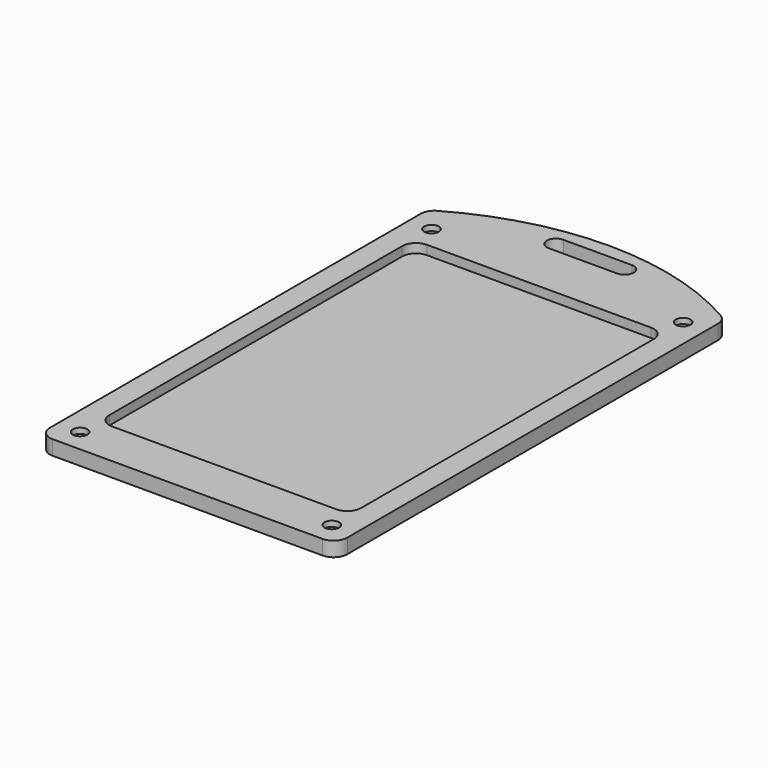
from build123d import *

# Parameters (mm, degrees)
F1_DEPTH = 3.2
F2_DEPTH = 1.2
F3_START = 2
F0_R     = 1.6
F3_DEPTH = 1.2


with BuildPart() as f1:
    # F0 (on Top) → F1 (new body)
    with BuildSketch(Plane.XY):
        with BuildLine():
            Line((-32.5, 51.2930130847), (-32.5, 48))
            Line((-32.5, 48), (-32.5, -48))
            Line((-32.5, -48), (-32.5, -50))
            ThreePointArc((-32.5, -50), (-31.6213203436, -52.1213203436), (-29.5, -53))
            Line((-29.5, -53), (29.5, -53))
            ThreePointArc((29.5, -53), (31.6213203436, -52.1213203436), (32.5, -50))
            Line((32.5, -50), (32.5, -48))
            Line((32.5, -48), (32.5, 48))
            Line((32.5, 48), (32.5, 51.2930130847))
            ThreePointArc((32.5, 51.2930130847), (32.0968235498, 52.7951806689), (30.9956616994, 53.8935891904))
            ThreePointArc((30.9956616994, 53.8935891904), (0, 62.1711347813), (-30.9956616994, 53.8935891904))
            ThreePointArc((-30.9956616994, 53.8935891904), (-32.0968235498, 52.7951806689), (-32.5, 51.2930130847))
        make_face()
        Polygon((-27.5, -44.5358983849), (-24.5, -46.2679491924), (-24.5, -49.7320508076), (-27.5, -51.4641016151), (-30.5, -49.7320508076), (-30.5, -46.2679491924), align=None, mode=Mode.SUBTRACT)
        Polygon((27.5, -51.4641016151), (24.5, -49.7320508076), (24.5, -46.2679491924), (27.5, -44.5358983849), (30.5, -46.2679491924), (30.5, -49.7320508076), align=None, mode=Mode.SUBTRACT)
        with BuildLine():
            ThreePointArc((-27.5, 40), (-26.6213203436, 42.1213203436), (-24.5, 43))
            Line((-24.5, 43), (24.5, 43))
            ThreePointArc((24.5, 43), (26.6213203436, 42.1213203436), (27.5, 40))
            Line((27.5, 40), (27.5, -40))
            ThreePointArc((27.5, -40), (26.6213203436, -42.1213203436), (24.5, -43))
            Line((24.5, -43), (-24.5, -43))
            ThreePointArc((-24.5, -43), (-26.6213203436, -42.1213203436), (-27.5, -40))
            Line((-27.5, -40), (-27.5, 40))
        make_face(mode=Mode.SUBTRACT)
        Polygon((-27.5, 51.4641016151), (-24.5, 49.7320508076), (-24.5, 46.2679491924), (-27.5, 44.5358983849), (-30.5, 46.2679491924), (-30.5, 49.7320508076), align=None, mode=Mode.SUBTRACT)
        with BuildLine():
            ThreePointArc((-7.4999998324, 55), (-9.4999998324, 57), (-7.4999998324, 59))
            Line((-7.4999998324, 59), (7.5000001676, 59))
            ThreePointArc((7.5000001676, 59), (9.5000001676, 57), (7.5000001676, 55))
            Line((7.5000001676, 55), (-7.4999998324, 55))
        make_face(mode=Mode.SUBTRACT)
        Polygon((27.5, 44.5358983849), (24.5, 46.2679491924), (24.5, 49.7320508076), (27.5, 51.4641016151), (30.5, 49.7320508076), (30.5, 46.2679491924), align=None, mode=Mode.SUBTRACT)
    extrude(amount=F1_DEPTH)

    # F0 (on Top) → F2 (join)
    with BuildSketch(Plane.XY):
        with BuildLine():
            Line((24.5, 43), (-24.5, 43))
            ThreePointArc((-24.5, 43), (-26.6213203436, 42.1213203436), (-27.5, 40))
            Line((-27.5, 40), (-27.5, -40))
            ThreePointArc((-27.5, -40), (-26.6213203436, -42.1213203436), (-24.5, -43))
            Line((-24.5, -43), (24.5, -43))
            ThreePointArc((24.5, -43), (26.6213203436, -42.1213203436), (27.5, -40))
            Line((27.5, -40), (27.5, 40))
            ThreePointArc((27.5, 40), (26.6213203436, 42.1213203436), (24.5, 43))
        make_face()
    extrude(amount=F2_DEPTH)

    # F0 (on Top) → F3 (join)
    with BuildSketch(Plane.XY.offset(F3_START)):
        Polygon((-24.5, -49.7320508076), (-24.5, -46.2679491924), (-27.5, -44.5358983849), (-30.5, -46.2679491924), (-30.5, -49.7320508076), (-27.5, -51.4641016151), align=None)
        with Locations((-27.5, -48)):
            Circle(F0_R, mode=Mode.SUBTRACT)
        Polygon((-24.5, -49.7320508076), (-24.5, -46.2679491924), (-27.5, -44.5358983849), (-30.5, -46.2679491924), (-30.5, -49.7320508076), (-27.5, -51.4641016151), align=None)
        with Locations((-27.5, -48)):
            Circle(F0_R, mode=Mode.SUBTRACT)
        Polygon((24.5, -46.2679491924), (24.5, -49.7320508076), (27.5, -51.4641016151), (30.5, -49.7320508076), (30.5, -46.2679491924), (27.5, -44.5358983849), align=None)
        with Locations((27.5, -48)):
            Circle(F0_R, mode=Mode.SUBTRACT)
        Polygon((24.5, -46.2679491924), (24.5, -49.7320508076), (27.5, -51.4641016151), (30.5, -49.7320508076), (30.5, -46.2679491924), (27.5, -44.5358983849), align=None)
        with Locations((27.5, -48)):
            Circle(F0_R, mode=Mode.SUBTRACT)
        Polygon((24.5, 49.7320508076), (24.5, 46.2679491924), (27.5, 44.5358983849), (30.5, 46.2679491924), (30.5, 49.7320508076), (27.5, 51.4641016151), align=None)
        with Locations((27.5, 48)):
            Circle(F0_R, mode=Mode.SUBTRACT)
        Polygon((24.5, 49.7320508076), (24.5, 46.2679491924), (27.5, 44.5358983849), (30.5, 46.2679491924), (30.5, 49.7320508076), (27.5, 51.4641016151), align=None)
        with Locations((27.5, 48)):
            Circle(F0_R, mode=Mode.SUBTRACT)
        Polygon((-24.5, 46.2679491924), (-24.5, 49.7320508076), (-27.5, 51.4641016151), (-30.5, 49.7320508076), (-30.5, 46.2679491924), (-27.5, 44.5358983849), align=None)
        with Locations((-27.5, 48)):
            Circle(F0_R, mode=Mode.SUBTRACT)
        Polygon((-24.5, 46.2679491924), (-24.5, 49.7320508076), (-27.5, 51.4641016151), (-30.5, 49.7320508076), (-30.5, 46.2679491924), (-27.5, 44.5358983849), align=None)
        with Locations((-27.5, 48)):
            Circle(F0_R, mode=Mode.SUBTRACT)
    extrude(amount=F3_DEPTH)


solid = f1.part
